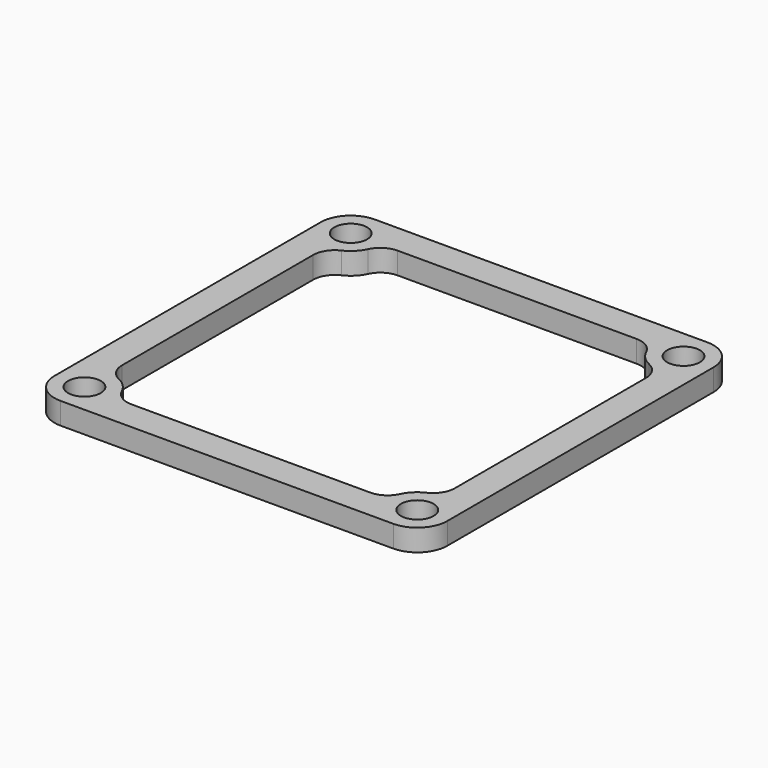
from build123d import *

# Parameters (mm, degrees)
F0_R     = 1.5
F1_DEPTH = 2
F2_R     = 2


with BuildPart() as f1:
    # F0 (on Top) → F1 (new body)
    with BuildSketch(Plane.XY):
        with BuildLine():
            Line((15.25, 18), (-15.25, 18))
            ThreePointArc((-15.25, 18), (-17.194544, 17.194544), (-18, 15.25))
            Line((-18, 15.25), (-18, -15.25))
            ThreePointArc((-18, -15.25), (-17.194544, -17.194544), (-15.25, -18))
            Line((-15.25, -18), (15.25, -18))
            ThreePointArc((15.25, -18), (17.194544, -17.194544), (18, -15.25))
            Line((18, -15.25), (18, 15.25))
            ThreePointArc((18, 15.25), (17.194544, 17.194544), (15.25, 18))
        make_face()
        with Locations((-15.25, -15.25)):
            Circle(F0_R, mode=Mode.SUBTRACT)
        with Locations((15.25, -15.25)):
            Circle(F0_R, mode=Mode.SUBTRACT)
        with Locations((-15.25, 15.25)):
            Circle(F0_R, mode=Mode.SUBTRACT)
        with BuildLine():
            Line((-15.25, -12.5), (-15.25, 12.5))
            ThreePointArc((-15.25, 12.5), (-13.305456, 13.305456), (-12.5, 15.25))
            Line((-12.5, 15.25), (12.5, 15.25))
            ThreePointArc((12.5, 15.25), (13.305456, 13.305456), (15.25, 12.5))
            Line((15.25, 12.5), (15.25, -12.5))
            ThreePointArc((15.25, -12.5), (13.305456, -13.305456), (12.5, -15.25))
            Line((12.5, -15.25), (-12.5, -15.25))
            ThreePointArc((-12.5, -15.25), (-13.305456, -13.305456), (-15.25, -12.5))
        make_face(mode=Mode.SUBTRACT)
        with Locations((15.25, 15.25)):
            Circle(F0_R, mode=Mode.SUBTRACT)
    extrude(amount=F1_DEPTH)

    # F2
    f2_edges = [f1.edges().sort_by_distance(p)[0] for p in [
        (-15.25, 12.5, 1),
        (-12.5, 15.25, 1),
        (12.5, 15.25, 1),
        (15.25, 12.5, 1),
        (15.25, -12.5, 1),
        (12.5, -15.25, 1),
        (-15.25, -12.5, 1),
        (-12.5, -15.25, 1),
    ]]
    fillet(f2_edges, radius=F2_R)


solid = f1.part
